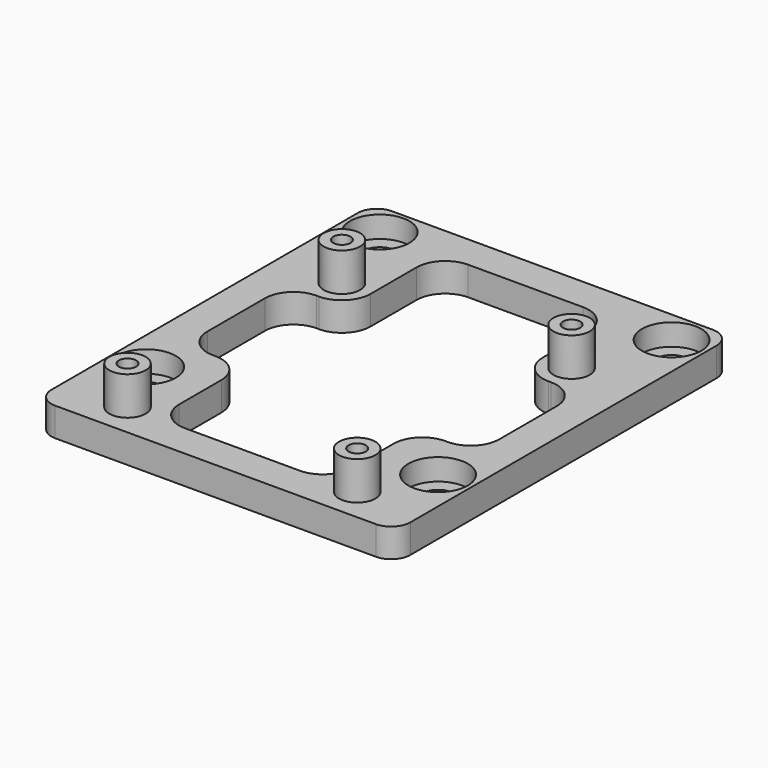
from build123d import *

# Parameters (mm, degrees)
F0_R     = 1.9
F0_R_2   = 3.1
F1_DEPTH = 3
F0_R_3   = 1.65
F2_DEPTH = 0.75
F0_R_4   = 0.9
F3_DEPTH = 7
F4_R     = 3


with BuildPart() as f1:
    # F0 (on Top) → F1 (new body)
    with BuildSketch(Plane.XY):
        with BuildLine():
            ThreePointArc((-16.75, 26.5), (-18.164214, 25.914214), (-18.75, 24.5))
            Line((-18.75, 24.5), (-18.75, -15.5))
            ThreePointArc((-18.75, -15.5), (-18.164214, -16.914214), (-16.75, -17.5))
            Line((-16.75, -17.5), (16.75, -17.5))
            ThreePointArc((16.75, -17.5), (18.164214, -16.914214), (18.75, -15.5))
            Line((18.75, -15.5), (18.75, 24.5))
            ThreePointArc((18.75, 24.5), (18.164214, 25.914214), (16.75, 26.5))
            Line((16.75, 26.5), (-16.75, 26.5))
        make_face()
        with Locations((-12, -14)):
            Circle(F0_R, mode=Mode.SUBTRACT)
        with Locations((-15.25, -7.5)):
            Circle(F0_R_2, mode=Mode.SUBTRACT)
        with Locations((12, -14)):
            Circle(F0_R, mode=Mode.SUBTRACT)
        with Locations((15.25, -7.5)):
            Circle(F0_R_2, mode=Mode.SUBTRACT)
        with Locations((-12, 14)):
            Circle(F0_R, mode=Mode.SUBTRACT)
        with Locations((-15.25, 23)):
            Circle(F0_R_2, mode=Mode.SUBTRACT)
        Polygon((-9, 11), (-9, 14), (-9, 23), (9, 23), (9, 14), (9, 11), (15.25, 11), (15.25, -2.5), (9.75, -2.5), (9, -2.5), (9, -14), (-9, -14), (-9, -2.5), (-9.75, -2.5), (-15.25, -2.5), (-15.25, 11), align=None, mode=Mode.SUBTRACT)
        with Locations((12, 14)):
            Circle(F0_R, mode=Mode.SUBTRACT)
        with Locations((15.25, 23)):
            Circle(F0_R_2, mode=Mode.SUBTRACT)
    extrude(amount=F1_DEPTH)

    # F0 (on Top) → F2 (join)
    with BuildSketch(Plane.XY):
        with Locations((-15.25, 23)):
            Circle(F0_R_2)
        with Locations((-15.25, 23)):
            Circle(F0_R_3, mode=Mode.SUBTRACT)
        with Locations((15.25, 23)):
            Circle(F0_R_2)
        with Locations((15.25, 23)):
            Circle(F0_R_3, mode=Mode.SUBTRACT)
        with Locations((15.25, -7.5)):
            Circle(F0_R_2)
        with Locations((15.25, -7.5)):
            Circle(F0_R_3, mode=Mode.SUBTRACT)
        with Locations((-15.25, -7.5)):
            Circle(F0_R_2)
        with Locations((-15.25, -7.5)):
            Circle(F0_R_3, mode=Mode.SUBTRACT)
    extrude(amount=F2_DEPTH)

    # F0 (on Top) → F3 (join)
    with BuildSketch(Plane.XY):
        with Locations((-12, 14)):
            Circle(F0_R)
        with Locations((-12, 14)):
            Circle(F0_R_4, mode=Mode.SUBTRACT)
        with Locations((12, 14)):
            Circle(F0_R)
        with Locations((12, 14)):
            Circle(F0_R_4, mode=Mode.SUBTRACT)
        with Locations((12, -14)):
            Circle(F0_R)
        with Locations((12, -14)):
            Circle(F0_R_4, mode=Mode.SUBTRACT)
        with Locations((-12, -14)):
            Circle(F0_R)
        with Locations((-12, -14)):
            Circle(F0_R_4, mode=Mode.SUBTRACT)
    extrude(amount=F3_DEPTH)

    # F4
    f4_edges = [f1.edges().sort_by_distance(p)[0] for p in [
        (-15.25, 11, 1.5),
        (-9, 23, 1.5),
        (-9, 11, 1.5),
        (9, 23, 1.5),
        (9, 11, 1.5),
        (15.25, 11, 1.5),
        (15.25, -2.5, 1.5),
        (9, -2.5, 1.5),
        (9, -14, 1.5),
        (-9, -2.5, 1.5),
        (-9, -14, 1.5),
        (-15.25, -2.5, 1.5),
    ]]
    fillet(f4_edges, radius=F4_R)


solid = f1.part
